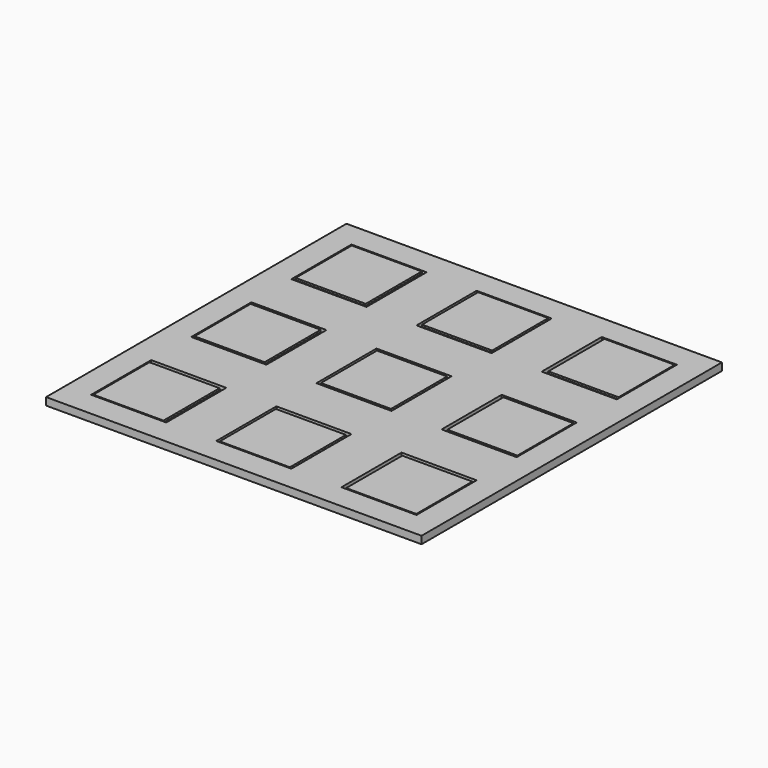
from build123d import *

# Parameters (mm, degrees)
F0_W     = 11.2
F0_H     = 11.2
F1_DEPTH = 1.2
F2_DEPTH = 0.9
F0_W_2   = 20
F0_H_2   = 20
F0_W_3   = 12
F0_H_3   = 12
F3_DEPTH = 1.2
F4_DEPTH = 0.6


with BuildPart() as f1:
    # F0 (on Top) → F1 (new body)
    with BuildSketch(Plane.XY):
        with Locations((-0.2, 40.2)):
            Rectangle(F0_W, F0_H)
    extrude(amount=F1_DEPTH)


with BuildPart() as f1b:
    # F0 (on Top) → F1, piece 2 (new body)
    with BuildSketch(Plane.XY):
        with Locations((20, 40.2)):
            Rectangle(F0_W, F0_H)
    extrude(amount=F1_DEPTH)


with BuildPart() as f1c:
    # F0 (on Top) → F1, piece 3 (new body)
    with BuildSketch(Plane.XY):
        with Locations((40.2, 40.2)):
            Rectangle(F0_W, F0_H)
    extrude(amount=F1_DEPTH)


with BuildPart() as f1d:
    # F0 (on Top) → F1, piece 4 (new body)
    with BuildSketch(Plane.XY):
        with Locations((40.2, 20)):
            Rectangle(F0_W, F0_H)
    extrude(amount=F1_DEPTH)


with BuildPart() as f1e:
    # F0 (on Top) → F1, piece 5 (new body)
    with BuildSketch(Plane.XY):
        with Locations((20, 20)):
            Rectangle(F0_W, F0_H)
    extrude(amount=F1_DEPTH)


with BuildPart() as f1f:
    # F0 (on Top) → F1, piece 6 (new body)
    with BuildSketch(Plane.XY):
        with Locations((-0.2, 20)):
            Rectangle(F0_W, F0_H)
    extrude(amount=F1_DEPTH)


with BuildPart() as f1g:
    # F0 (on Top) → F1, piece 7 (new body)
    with BuildSketch(Plane.XY):
        with Locations((-0.2, -0.2)):
            Rectangle(F0_W, F0_H)
    extrude(amount=F1_DEPTH)


with BuildPart() as f1h:
    # F0 (on Top) → F1, piece 8 (new body)
    with BuildSketch(Plane.XY):
        with Locations((20, -0.2)):
            Rectangle(F0_W, F0_H)
    extrude(amount=F1_DEPTH)


with BuildPart() as f1i:
    # F0 (on Top) → F1, piece 9 (new body)
    with BuildSketch(Plane.XY):
        with Locations((40.2, -0.2)):
            Rectangle(F0_W, F0_H)
    extrude(amount=F1_DEPTH)


with BuildPart() as f2_tool:
    # F0 (on Top) → F2 (new body)
    with BuildSketch(Plane.XY):
        with Locations((-0.2, -0.2)):
            Rectangle(F0_W, F0_H)
        with Locations((20, -0.2)):
            Rectangle(F0_W, F0_H)
        with Locations((40.2, -0.2)):
            Rectangle(F0_W, F0_H)
        with Locations((-0.2, 20)):
            Rectangle(F0_W, F0_H)
        with Locations((20, 20)):
            Rectangle(F0_W, F0_H)
        with Locations((40.2, 20)):
            Rectangle(F0_W, F0_H)
        with Locations((-0.2, 40.2)):
            Rectangle(F0_W, F0_H)
        with Locations((20, 40.2)):
            Rectangle(F0_W, F0_H)
        with Locations((40.2, 40.2)):
            Rectangle(F0_W, F0_H)
    extrude(amount=F2_DEPTH)


with BuildPart() as f1_1:
    add(f1.part)

    # F2: cut by f2_tool
    add(f2_tool.part, mode=Mode.SUBTRACT)


with BuildPart() as f1b_1:
    add(f1b.part)

    # F2: cut by f2_tool
    add(f2_tool.part, mode=Mode.SUBTRACT)


with BuildPart() as f1c_1:
    add(f1c.part)

    # F2: cut by f2_tool
    add(f2_tool.part, mode=Mode.SUBTRACT)


with BuildPart() as f1d_1:
    add(f1d.part)

    # F2: cut by f2_tool
    add(f2_tool.part, mode=Mode.SUBTRACT)


with BuildPart() as f1e_1:
    add(f1e.part)

    # F2: cut by f2_tool
    add(f2_tool.part, mode=Mode.SUBTRACT)


with BuildPart() as f1f_1:
    add(f1f.part)

    # F2: cut by f2_tool
    add(f2_tool.part, mode=Mode.SUBTRACT)


with BuildPart() as f1g_1:
    add(f1g.part)

    # F2: cut by f2_tool
    add(f2_tool.part, mode=Mode.SUBTRACT)


with BuildPart() as f1h_1:
    add(f1h.part)

    # F2: cut by f2_tool
    add(f2_tool.part, mode=Mode.SUBTRACT)


with BuildPart() as f1i_1:
    add(f1i.part)

    # F2: cut by f2_tool
    add(f2_tool.part, mode=Mode.SUBTRACT)


with BuildPart() as f3:
    # F0 (on Top) → F3 (new body)
    with BuildSketch(Plane.XY):
        with Locations((0, 40)):
            Rectangle(F0_W_2, F0_H_2)
        with Locations((0, 40)):
            Rectangle(F0_W_3, F0_H_3, mode=Mode.SUBTRACT)
        with Locations((20, 40)):
            Rectangle(F0_W_2, F0_H_2)
        with Locations((20, 40)):
            Rectangle(F0_W_3, F0_H_3, mode=Mode.SUBTRACT)
        with Locations((40, 40)):
            Rectangle(F0_W_2, F0_H_2)
        with Locations((40, 40)):
            Rectangle(F0_W_3, F0_H_3, mode=Mode.SUBTRACT)
        with Locations((40, 20)):
            Rectangle(F0_W_2, F0_H_2)
        with Locations((40, 20)):
            Rectangle(F0_W_3, F0_H_3, mode=Mode.SUBTRACT)
        with Locations((20, 20)):
            Rectangle(F0_W_2, F0_H_2)
        with Locations((20, 20)):
            Rectangle(F0_W_3, F0_H_3, mode=Mode.SUBTRACT)
        with Locations((0, 20)):
            Rectangle(F0_W_2, F0_H_2)
        with Locations((0, 20)):
            Rectangle(F0_W_3, F0_H_3, mode=Mode.SUBTRACT)
        Rectangle(F0_W_2, F0_H_2)
        Rectangle(F0_W_3, F0_H_3, mode=Mode.SUBTRACT)
        with Locations((20, 0)):
            Rectangle(F0_W_2, F0_H_2)
        with Locations((20, 0)):
            Rectangle(F0_W_3, F0_H_3, mode=Mode.SUBTRACT)
        with Locations((40, 0)):
            Rectangle(F0_W_2, F0_H_2)
        with Locations((40, 0)):
            Rectangle(F0_W_3, F0_H_3, mode=Mode.SUBTRACT)
    extrude(amount=F3_DEPTH)

    # F0 (on Top) → F4 (join)
    with BuildSketch(Plane.XY):
        with Locations((40, 40)):
            Rectangle(F0_W_2, F0_H_2)
        with Locations((40, 40)):
            Rectangle(F0_W_3, F0_H_3, mode=Mode.SUBTRACT)
        with Locations((40, 20)):
            Rectangle(F0_W_2, F0_H_2)
        with Locations((40, 20)):
            Rectangle(F0_W_3, F0_H_3, mode=Mode.SUBTRACT)
        with Locations((40, 0)):
            Rectangle(F0_W_2, F0_H_2)
        with Locations((40, 0)):
            Rectangle(F0_W_3, F0_H_3, mode=Mode.SUBTRACT)
        with Locations((20, 0)):
            Rectangle(F0_W_2, F0_H_2)
        with Locations((20, 0)):
            Rectangle(F0_W_3, F0_H_3, mode=Mode.SUBTRACT)
        with Locations((20, 20)):
            Rectangle(F0_W_2, F0_H_2)
        with Locations((20, 20)):
            Rectangle(F0_W_3, F0_H_3, mode=Mode.SUBTRACT)
        with Locations((20, 40)):
            Rectangle(F0_W_2, F0_H_2)
        with Locations((20, 40)):
            Rectangle(F0_W_3, F0_H_3, mode=Mode.SUBTRACT)
        with Locations((0, 40)):
            Rectangle(F0_W_2, F0_H_2)
        with Locations((0, 40)):
            Rectangle(F0_W_3, F0_H_3, mode=Mode.SUBTRACT)
        with Locations((0, 20)):
            Rectangle(F0_W_2, F0_H_2)
        with Locations((0, 20)):
            Rectangle(F0_W_3, F0_H_3, mode=Mode.SUBTRACT)
        Rectangle(F0_W_2, F0_H_2)
        Rectangle(F0_W_3, F0_H_3, mode=Mode.SUBTRACT)
        with Locations((40, 40)):
            Rectangle(F0_W_3, F0_H_3)
        with Locations((40.2, 40.2)):
            Rectangle(F0_W, F0_H, mode=Mode.SUBTRACT)
        with Locations((40, 20)):
            Rectangle(F0_W_3, F0_H_3)
        with Locations((40.2, 20)):
            Rectangle(F0_W, F0_H, mode=Mode.SUBTRACT)
        with Locations((0, 40)):
            Rectangle(F0_W_3, F0_H_3)
        with Locations((-0.2, 40.2)):
            Rectangle(F0_W, F0_H, mode=Mode.SUBTRACT)
        with Locations((20, 40)):
            Rectangle(F0_W_3, F0_H_3)
        with Locations((20, 40.2)):
            Rectangle(F0_W, F0_H, mode=Mode.SUBTRACT)
        with Locations((20, 20)):
            Rectangle(F0_W_3, F0_H_3)
        with Locations((20, 20)):
            Rectangle(F0_W, F0_H, mode=Mode.SUBTRACT)
        with Locations((0, 20)):
            Rectangle(F0_W_3, F0_H_3)
        with Locations((-0.2, 20)):
            Rectangle(F0_W, F0_H, mode=Mode.SUBTRACT)
        Rectangle(F0_W_3, F0_H_3)
        with Locations((-0.2, -0.2)):
            Rectangle(F0_W, F0_H, mode=Mode.SUBTRACT)
        with Locations((20, 0)):
            Rectangle(F0_W_3, F0_H_3)
        with Locations((20, -0.2)):
            Rectangle(F0_W, F0_H, mode=Mode.SUBTRACT)
        with Locations((40, 0)):
            Rectangle(F0_W_3, F0_H_3)
        with Locations((40.2, -0.2)):
            Rectangle(F0_W, F0_H, mode=Mode.SUBTRACT)
        with Locations((40.2, 40.2)):
            Rectangle(F0_W, F0_H)
        with Locations((40.2, 20)):
            Rectangle(F0_W, F0_H)
        with Locations((-0.2, -0.2)):
            Rectangle(F0_W, F0_H)
        with Locations((20, -0.2)):
            Rectangle(F0_W, F0_H)
        with Locations((40.2, -0.2)):
            Rectangle(F0_W, F0_H)
        with Locations((20, 20)):
            Rectangle(F0_W, F0_H)
        with Locations((20, 40.2)):
            Rectangle(F0_W, F0_H)
        with Locations((-0.2, 20)):
            Rectangle(F0_W, F0_H)
        with Locations((-0.2, 40.2)):
            Rectangle(F0_W, F0_H)
    extrude(amount=F4_DEPTH)


solid = Compound([f1_1.part, f1b_1.part, f1c_1.part, f1d_1.part, f1e_1.part, f1f_1.part, f1g_1.part, f1h_1.part, f1i_1.part, f3.part])
